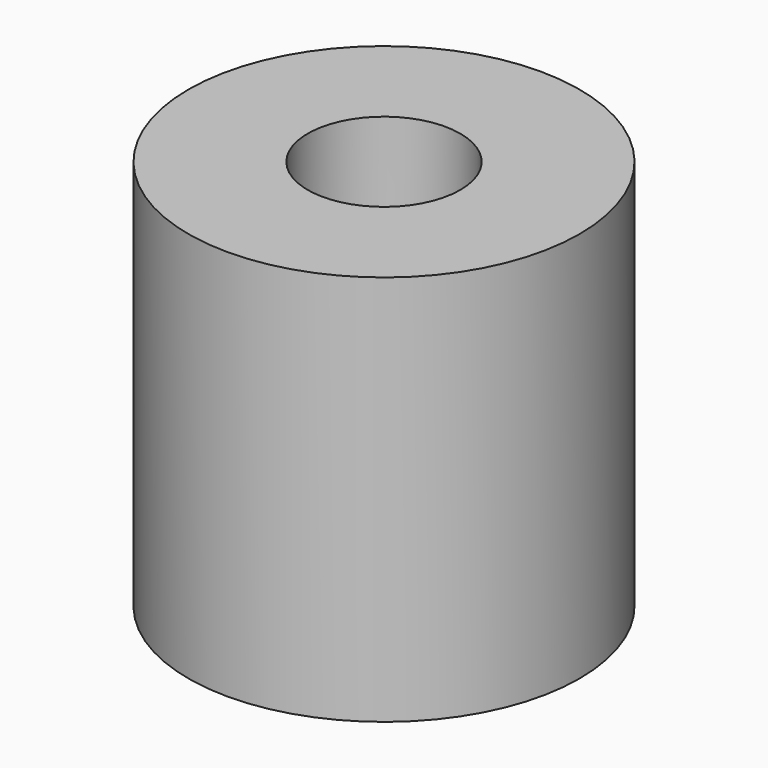
from build123d import *

# Parameters (mm, degrees)
SKETCH_R     = 10
SKETCH_R_2   = 3.9
PAD_DEPTH    = 20
SKETCH001_R  = 6.2
POCKET_DEPTH = 10


with BuildPart() as part:
    # Sketch → Pad (new body)
    with BuildSketch(Plane.XY):
        Circle(SKETCH_R)
        Circle(SKETCH_R_2, mode=Mode.SUBTRACT)
    extrude(amount=PAD_DEPTH)

    # Sketch001 → Pocket (cut)
    with BuildSketch(Plane.XY):
        Circle(SKETCH001_R)
    extrude(amount=POCKET_DEPTH, mode=Mode.SUBTRACT)


solid = part.part
